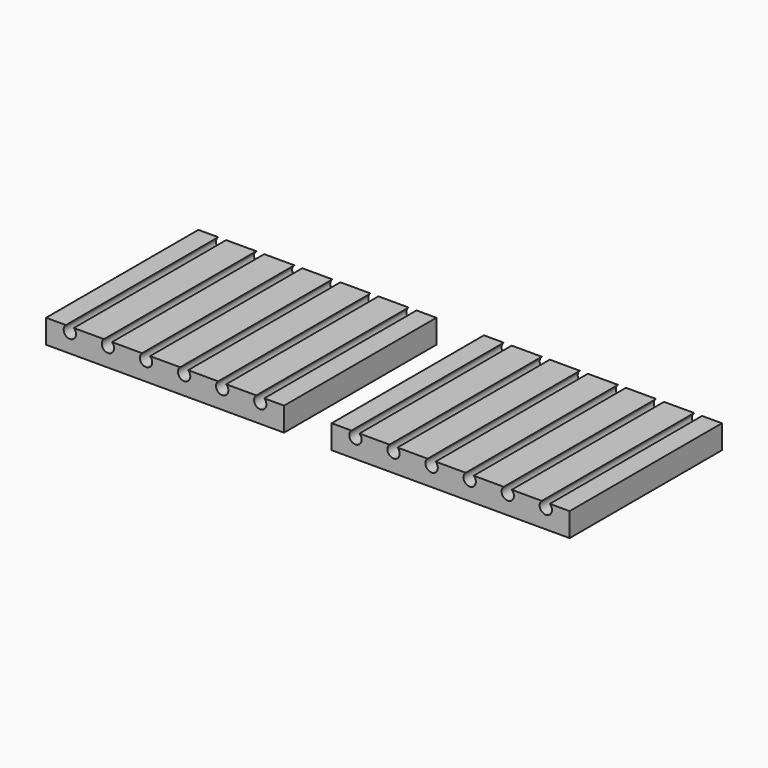
from build123d import *

# Parameters (mm, degrees)
F0_W     = 100
F0_H     = 80
F1_DEPTH = 10
F3_DEPTH = 80.001


with BuildPart() as f1:
    # F0 (on Top) → F1 (new body)
    with BuildSketch(Plane.XY):
        Rectangle(F0_W, F0_H)
    extrude(amount=F1_DEPTH)

    # F2 (on face) → F3 (cut, through all)
    with BuildSketch(Plane.XZ.offset(40)):
        with BuildLine():
            Line((38.3386752274, 10), (41.6613247726, 10))
            ThreePointArc((41.6613247726, 10), (40, 10.6), (38.3386752274, 10))
        make_face()
        with BuildLine():
            Line((22.3386752274, 10), (25.6613247726, 10))
            ThreePointArc((25.6613247726, 10), (24, 10.6), (22.3386752274, 10))
        make_face()
        with BuildLine():
            Line((6.3386752274, 10), (9.6613247726, 10))
            ThreePointArc((9.6613247726, 10), (8, 10.6), (6.3386752274, 10))
        make_face()
        with BuildLine():
            ThreePointArc((-6.3386752274, 10), (-8, 10.6), (-9.6613247726, 10))
            Line((-9.6613247726, 10), (-6.3386752274, 10))
        make_face()
        with BuildLine():
            ThreePointArc((-22.3386752274, 10), (-24, 10.6), (-25.6613247726, 10))
            Line((-25.6613247726, 10), (-22.3386752274, 10))
        make_face()
        with BuildLine():
            ThreePointArc((-38.3386752274, 10), (-40, 10.6), (-41.6613247726, 10))
            Line((-41.6613247726, 10), (-38.3386752274, 10))
        make_face()
        with BuildLine():
            ThreePointArc((42.6, 8), (42.3536614464, 9.1046618467), (41.6613247726, 10))
            Line((41.6613247726, 10), (38.3386752274, 10))
            ThreePointArc((38.3386752274, 10), (38.8953381533, 5.6463385536), (42.6, 8))
        make_face()
        with BuildLine():
            ThreePointArc((26.6, 8), (26.3536614464, 9.1046618467), (25.6613247726, 10))
            Line((25.6613247726, 10), (22.3386752274, 10))
            ThreePointArc((22.3386752274, 10), (22.8953381533, 5.6463385536), (26.6, 8))
        make_face()
        with BuildLine():
            ThreePointArc((10.6, 8), (10.3536614464, 9.1046618467), (9.6613247726, 10))
            Line((9.6613247726, 10), (6.3386752274, 10))
            ThreePointArc((6.3386752274, 10), (6.8953381533, 5.6463385536), (10.6, 8))
        make_face()
        with BuildLine():
            Line((-6.3386752274, 10), (-9.6613247726, 10))
            ThreePointArc((-9.6613247726, 10), (-9.1046618467, 5.6463385536), (-5.4, 8))
            ThreePointArc((-5.4, 8), (-5.6463385536, 9.1046618467), (-6.3386752274, 10))
        make_face()
        with BuildLine():
            Line((-22.3386752274, 10), (-25.6613247726, 10))
            ThreePointArc((-25.6613247726, 10), (-25.1046618467, 5.6463385536), (-21.4, 8))
            ThreePointArc((-21.4, 8), (-21.6463385536, 9.1046618467), (-22.3386752274, 10))
        make_face()
        with BuildLine():
            Line((-38.3386752274, 10), (-41.6613247726, 10))
            ThreePointArc((-41.6613247726, 10), (-41.1046618467, 5.6463385536), (-37.4, 8))
            ThreePointArc((-37.4, 8), (-37.6463385536, 9.1046618467), (-38.3386752274, 10))
        make_face()
    extrude(amount=-F3_DEPTH, mode=Mode.SUBTRACT)


with BuildPart() as f4_1:
    # F4: copy of F1
    add(f1.part.moved(Location((120, 0, 0))))


solid = Compound([f1.part, f4_1.part])
